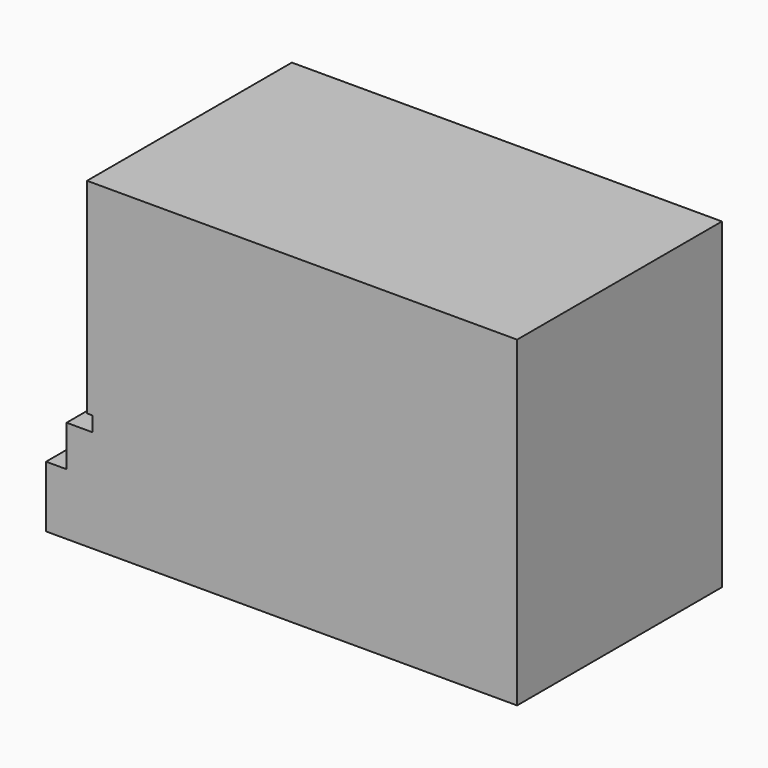
from build123d import *

# Parameters (mm, degrees)
F0_W     = 41.45
F0_H     = 1.45
F1_DEPTH = 25


with BuildPart() as f1:
    # F0 (on Front) → F1 (new body)
    with BuildSketch(Plane.XZ):
        Polygon((0, -4), (0, 0), (-41.45, 0), (-44, 0), (-44, -4), align=None)
        with Locations((-20.725, 0.725)):
            Rectangle(F0_W, F0_H)
        Polygon((-41.45, 1.45), (0, 1.45), (0, 21.45), (-42, 21.45), (-42, 1.45), align=None)
        Polygon((0, -10), (0, -4), (-44, -4), (-46, -4), (-46, -10), align=None)
    extrude(amount=F1_DEPTH)


solid = f1.part
